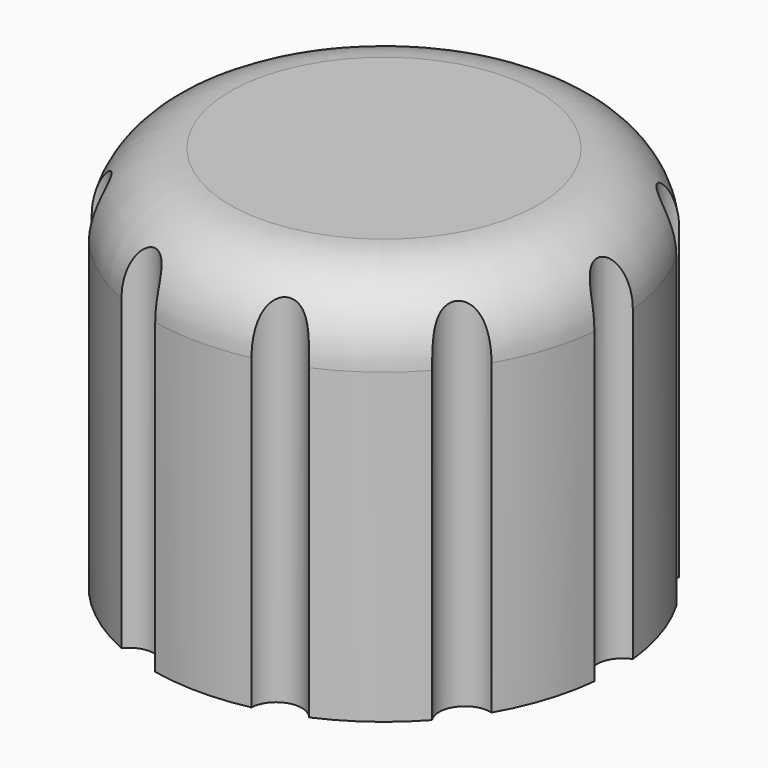
from build123d import *

# Parameters (mm, degrees)
SKETCH_R           = 9
SKETCH_R_2         = 3.15
PAD_DEPTH          = 15
SKETCH001_R        = 9
PAD001_DEPTH       = 12
FILLET_R           = 3
SKETCH002_R        = 1
POCKET_DEPTH       = 15
POLARPATTERN_COUNT = 10
SKETCH003_W        = 7.258159
SKETCH003_H        = 2.087937
PAD002_DEPTH       = 10


with BuildPart() as part:
    # Sketch → Pad (new body)
    with BuildSketch(Plane.XY):
        Circle(SKETCH_R)
        Circle(SKETCH_R_2, mode=Mode.SUBTRACT)
    extrude(amount=PAD_DEPTH)

    # Sketch001 (on Face4 of Pad) → Pad001 (join)
    with BuildSketch(Plane.XY.offset(15)):
        Circle(SKETCH001_R)
    extrude(amount=-PAD001_DEPTH)

    # Fillet
    fillet_edges = [part.edges().sort_by_distance(p)[0] for p in [
        (-9, 0, 15),
    ]]
    fillet(fillet_edges, radius=FILLET_R)

    # Sketch002 (on Face6 of Fillet) → Pocket (cut)
    with BuildSketch(Plane.XY.offset(15)):
        with Locations((9.3, 0)):
            Circle(SKETCH002_R)
    pocket = extrude(amount=-POCKET_DEPTH, mode=Mode.SUBTRACT)

    # PolarPattern: Pocket ×10 about axis
    polarpattern_axis = Axis((0, 0, 0), (0, 0, 1))
    for i in range(1, POLARPATTERN_COUNT):
        add(pocket.rotate(polarpattern_axis, i * 360 / POLARPATTERN_COUNT), mode=Mode.SUBTRACT)

    # Sketch003 (on Face8 of PolarPattern) → Pad002 (join)
    with BuildSketch(Plane(origin=(0, 0, 0), x_dir=(1, 0, 0), z_dir=(0, 0, -1))):
        with Locations((0.174419, -2.743968)):
            Rectangle(SKETCH003_W, SKETCH003_H)
    extrude(amount=-PAD002_DEPTH)


solid = part.part
